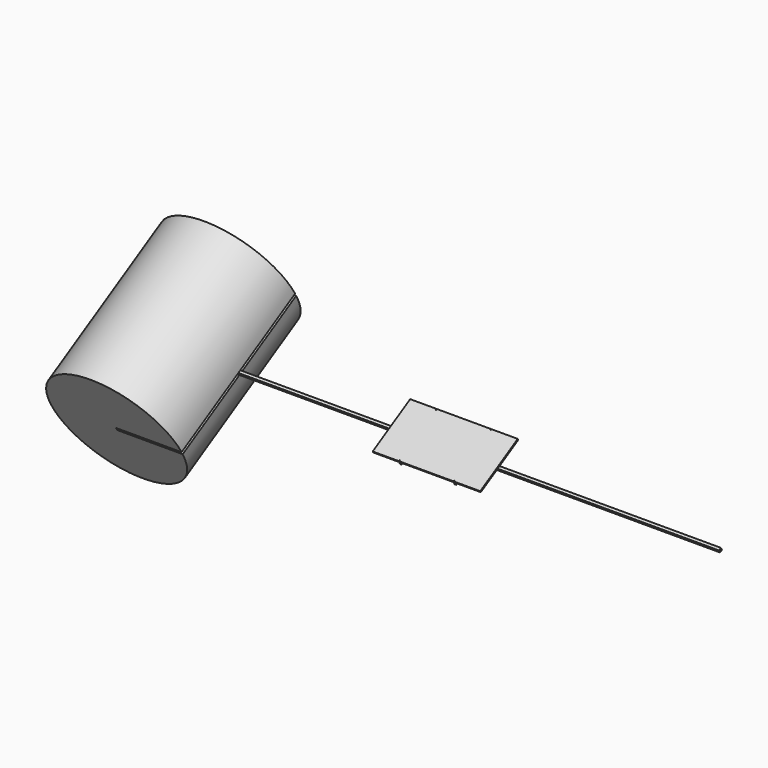
from build123d import *

# Parameters (mm, degrees)
F0_W          = 1970
F0_H          = 990
F0_R          = 6
F1_DEPTH      = 25
F2_ANGLE      = 30
F3_W          = 30
F3_H          = 50
F4_DEPTH      = 990
F6_DEPTH      = 4015
F6_DEPTH_BACK = 5985
F7_T          = -2
F9_DEPTH      = 1500


with BuildPart() as f1:
    # F0 (on Top) → F1 (new body)
    with BuildSketch(Plane.XY):
        with Locations((416.8867363036, 495.7481575012)):
            Rectangle(F0_W, F0_H)
        with Locations((-82.8598737717, 16.8394874781)):
            Circle(F0_R, mode=Mode.SUBTRACT)
        with Locations((916.8867363036, 16.7481575012)):
            Circle(F0_R, mode=Mode.SUBTRACT)
        with Locations((-83.1132636964, 974.7481575012)):
            Circle(F0_R, mode=Mode.SUBTRACT)
        with Locations((916.8867363036, 974.7481575012)):
            Circle(F0_R, mode=Mode.SUBTRACT)
    extrude(amount=-F1_DEPTH)


with BuildPart() as f1_1:
    # F2: moved
    add(f1.part.rotate(Axis((416.8867363036, 0.7481575012, -25), (1, 0, 0)), F2_ANGLE))


with BuildPart() as f4:
    # F3 (on face) → F4 (new body)
    with BuildSketch(Plane(origin=(0, 847.1009503252, 489.073961701), x_dir=(-1, 0, 0), z_dir=(0, 0.8660254038, 0.5))):
        with Locations((83.1132636964, -47.0247138452)):
            Rectangle(F3_W, F3_H)
    extrude(amount=-F4_DEPTH)


with BuildPart() as f4b:
    # F3 (on face) → F4, piece 2 (new body)
    with BuildSketch(Plane(origin=(0, 847.1009503252, 489.073961701), x_dir=(-1, 0, 0), z_dir=(0, 0.8660254038, 0.5))):
        with Locations((-916.8867363036, -47.0247138452)):
            Rectangle(F3_W, F3_H)
    extrude(amount=-F4_DEPTH)


with BuildPart() as f6:
    # F5 (on face) → F6 (new body, two sides)
    with BuildSketch(Plane(origin=(-568.1132636964, 0, 0), x_dir=(0, -1, 0), z_dir=(-1, 0, 0))) as f6_sk:
        Polygon((-432.7800972799, 166.6987298108), (-454.4307323745, 179.1987298108), (-476.0813674691, 191.6987298108), (-501.0813674691, 148.3974596216), (-457.7800972799, 123.3974596216), align=None)
    extrude(amount=F6_DEPTH)
    extrude(f6_sk.sketch, amount=-F6_DEPTH_BACK)

    # F7
    f7_openings = [f6.faces().sort_by_distance(p)[0] for p in [
        (-4583.113264, 466.930732, 157.548095),
        (5416.886736, 466.930732, 157.548095),
    ]]
    offset(amount=F7_T, openings=f7_openings)

    # F8 (on face) → F9 (join, symmetric)
    with BuildSketch(Plane(origin=(0, 396.7677403573, 229.073961701), x_dir=(1, 0, 0), z_dir=(0, -0.8660254038, -0.5))):
        with BuildLine():
            Line((-4583.1132636964, -72.0247138452), (-3383.3737086263, -72.0247138452))
            ThreePointArc((-3383.3737086262, -72.0247138452), (-5783.1132636964, -97.0247138452), (-3383.3737086262, -122.0247138453))
            Line((-3383.3737086263, -122.0247138452), (-4583.1132636964, -122.0247138452))
            Line((-4583.1132636964, -122.0247138452), (-4583.1132636964, -72.0247138452))
        make_face()
    extrude(amount=F9_DEPTH, both=True)


solid = Compound([f1_1.part, f4.part, f4b.part, f6.part])
